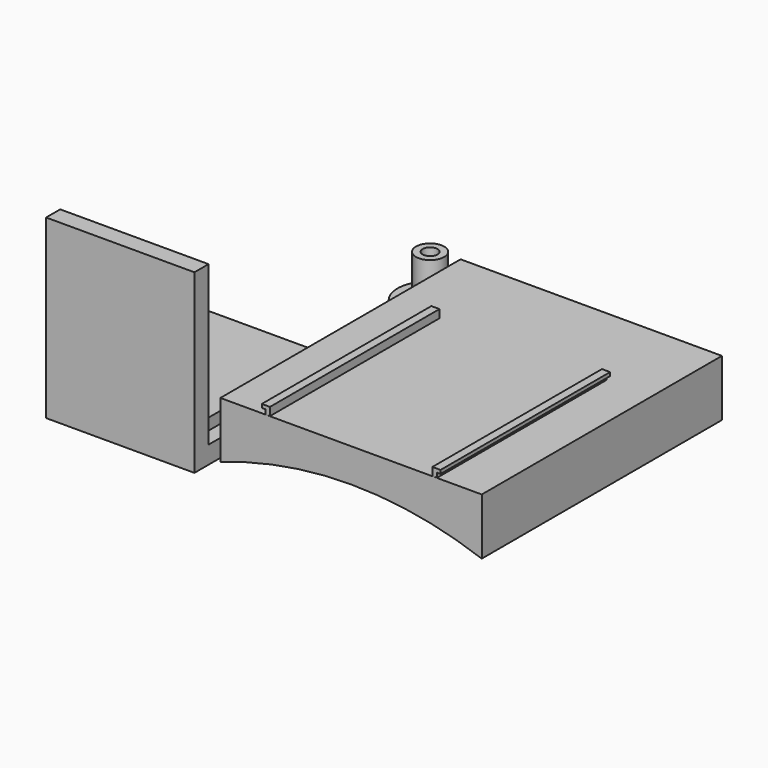
from build123d import *

# Parameters (mm, degrees)
F0_R      = 9
F2_DEPTH  = 2
F1_R      = 4
F1_R_2    = 2.1
F3_DEPTH  = 14
F3_FACE_R = 2.1
F4_DEPTH  = 2
F5_W      = 74
F5_H      = 85
F6_DEPTH  = 16
F8_DEPTH  = 85
F10_DEPTH = 60
F11_W     = 42
F11_H     = 50
F12_DEPTH = 5
F13_W     = 42
F13_H     = 5
F14_DEPTH = 50
F15_W     = 3.9
F15_H     = 35.5
F16_DEPTH = 5


with BuildPart() as f2:
    # F0 (on Top) → F2 (new body)
    with BuildSketch(Plane.XY):
        with Locations((-32.524753, 26.398515)):
            Circle(F0_R)
    extrude(amount=F2_DEPTH)

    # F1 (on Top) → F3 (join)
    with BuildSketch(Plane.XY):
        with Locations((-32.453865, 26.585845)):
            Circle(F1_R)
        with Locations((-32.453865, 26.585845)):
            Circle(F1_R_2, mode=Mode.SUBTRACT)
    extrude(amount=F3_DEPTH)

    # F3_face (on face) → F4 (cut)
    with BuildSketch(Plane(origin=(-32.453865, 26.585845, 2), x_dir=(1, 0, 0), z_dir=(0, 0, 1))):
        Circle(F3_FACE_R)
    extrude(amount=-F4_DEPTH, mode=Mode.SUBTRACT)


with BuildPart() as f6:
    # F5 (on Top) → F6 (new body)
    with BuildSketch(Plane.XY):
        with Locations((14.460396, -17.537132)):
            Rectangle(F5_W, F5_H)
    extrude(amount=F6_DEPTH)

    # F7 (on face) → F8 (cut)
    with BuildSketch(Plane.XZ.offset(60.037132)):
        with BuildLine():
            Line((-22.539604, 0), (51.460396, 0))
            ThreePointArc((51.460396, 0), (14.460396, 6.471955), (-22.539604, 0))
        make_face()
    extrude(amount=-F8_DEPTH, mode=Mode.SUBTRACT)


with BuildPart() as f10:
    # F9 (on Front) → F10 (new body)
    with BuildSketch(Plane.XZ):
        Polygon((-9.839604, 16), (-8.539604, 16), (-8.539604, 18.3), (-10.839604, 18.3), (-10.839604, 17.3), (-9.839604, 17.3), align=None)
        Polygon((37.460396, 18.3), (37.460396, 16), (38.760396, 16), (38.760396, 17.3), (39.760396, 17.3), (39.760396, 18.3), align=None)
    extrude(amount=F10_DEPTH)


with BuildPart() as f12:
    # F11 (on Front) → F12 (new body)
    with BuildSketch(Plane.XZ):
        with Locations((-94.921915, -16.766828)):
            Rectangle(F11_W, F11_H)
    extrude(amount=F12_DEPTH)

    # F13 (on face) → F14 (join)
    with BuildSketch(Plane(origin=(0, 0, 0), x_dir=(-1, 0, 0), z_dir=(0, 1, 0))):
        with Locations((94.921915, -39.266828)):
            Rectangle(F13_W, F13_H)
    extrude(amount=F14_DEPTH)

    # F15 (on face) → F16 (cut)
    with BuildSketch(Plane(origin=(0, 0, -41.766828), x_dir=(1, 0, 0), z_dir=(0, 0, -1))):
        with Locations((-110.071915, -22.75)):
            Rectangle(F15_W, F15_H)
        with Locations((-80.072081, -22.849926)):
            Rectangle(F15_W, F15_H)
    extrude(amount=-F16_DEPTH, mode=Mode.SUBTRACT)


solid = Compound([f2.part, f6.part, f10.part, f12.part])
